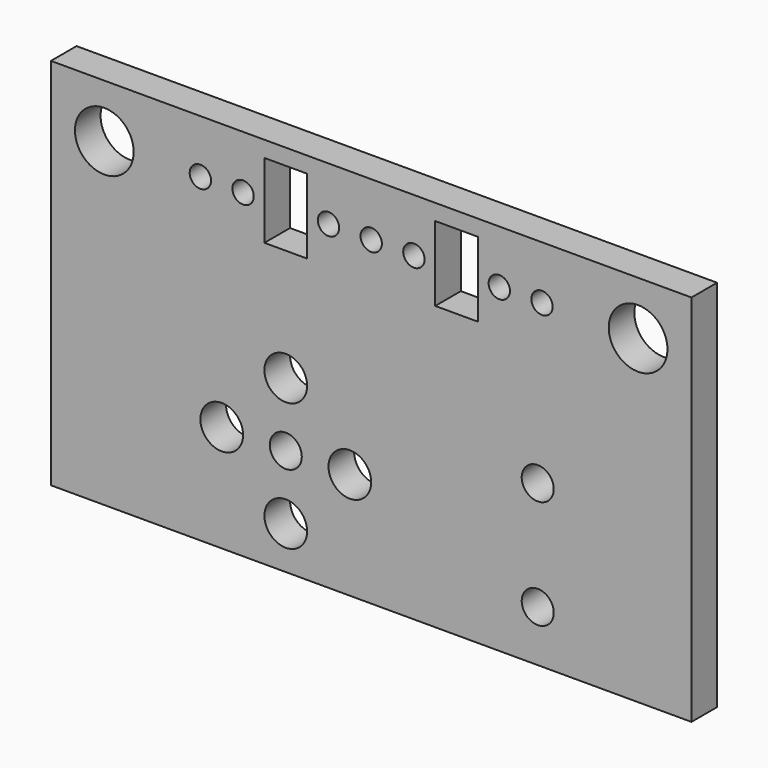
from build123d import *

# Parameters (mm, degrees)
SKETCH_W      = 60
SKETCH_H      = 3
PAD_DEPTH     = 35
SKETCH001_R   = 1.5
SKETCH001_R_2 = 2
SKETCH001_R_3 = 2.75
SKETCH001_R_4 = 1
SKETCH001_W   = 4
SKETCH001_H   = 7
POCKET_DEPTH  = 3


with BuildPart() as part:
    # Sketch → Pad (new body)
    with BuildSketch(Plane.XY):
        with Locations((30, 1.5)):
            Rectangle(SKETCH_W, SKETCH_H)
    extrude(amount=PAD_DEPTH)

    # Sketch001 → Pocket (cut)
    with BuildSketch(Plane.XZ):
        with Locations((22, 10)):
            Circle(SKETCH001_R)
        with Locations((28, 10)):
            Circle(SKETCH001_R_2)
        with Locations((22, 16)):
            Circle(SKETCH001_R_2)
        with Locations((16, 10)):
            Circle(SKETCH001_R_2)
        with Locations((22, 4)):
            Circle(SKETCH001_R_2)
        with Locations((5, 30)):
            Circle(SKETCH001_R_3)
        with Locations((55, 30)):
            Circle(SKETCH001_R_3)
        with Locations((14, 30)):
            Circle(SKETCH001_R_4)
        with Locations((18, 30)):
            Circle(SKETCH001_R_4)
        with Locations((26, 30)):
            Circle(SKETCH001_R_4)
        with Locations((30, 30)):
            Circle(SKETCH001_R_4)
        with Locations((34, 30)):
            Circle(SKETCH001_R_4)
        with Locations((42, 30)):
            Circle(SKETCH001_R_4)
        with Locations((46, 30)):
            Circle(SKETCH001_R_4)
        with Locations((45.6, 15)):
            Circle(SKETCH001_R)
        with Locations((45.6, 4.8)):
            Circle(SKETCH001_R)
        with Locations((22, 30)):
            Rectangle(SKETCH001_W, SKETCH001_H)
        with Locations((38, 30)):
            Rectangle(SKETCH001_W, SKETCH001_H)
    extrude(amount=-POCKET_DEPTH, mode=Mode.SUBTRACT)


solid = part.part
